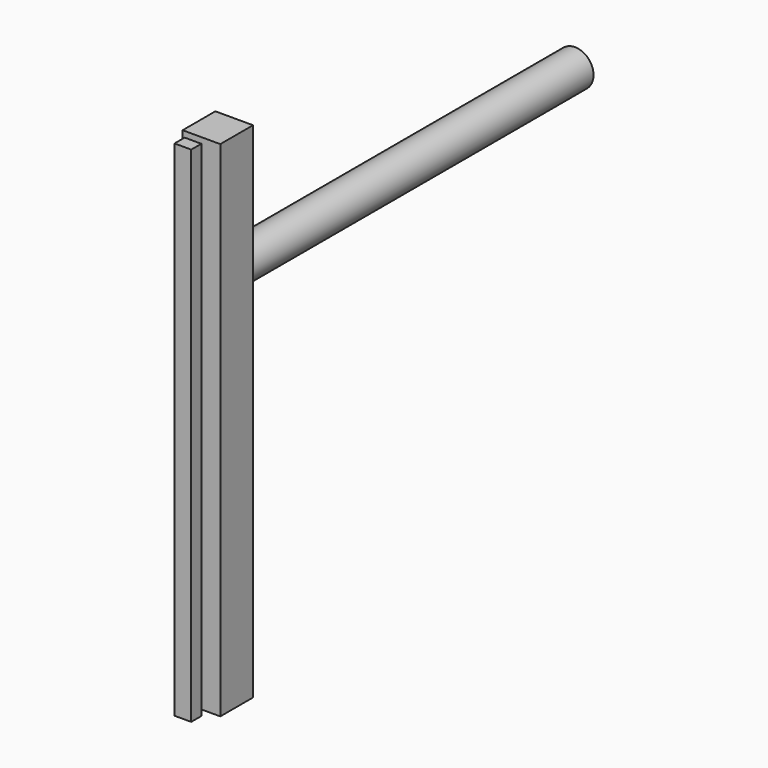
from build123d import *

# Parameters (mm, degrees)
F0_W     = 15.734761
F0_H     = 17.0973
F0_W_2   = 6.981575
F0_H_2   = 5.285302
F1_DEPTH = 210.437238
F2_R     = 7.710674
F3_DEPTH = 179.760903


with BuildPart() as f1:
    # F0 (on Top) → F1 (new body)
    with BuildSketch(Plane.XY):
        with Locations((19.689442, 17.504056)):
            Rectangle(F0_W, F0_H)
        with Locations((19.689442, 17.504056)):
            Rectangle(F0_W, F0_H)
        with Locations((19.088029, 2.642651)):
            Rectangle(F0_W_2, F0_H_2)
    extrude(amount=F1_DEPTH)

    # F2 (on face) → F3 (join)
    with BuildSketch(Plane(origin=(0, 26.052706, 0), x_dir=(-1, 0, 0), z_dir=(0, 1, 0))):
        with Locations((-18.257026, 155.330509)):
            Circle(F2_R)
    extrude(amount=F3_DEPTH)


solid = f1.part
